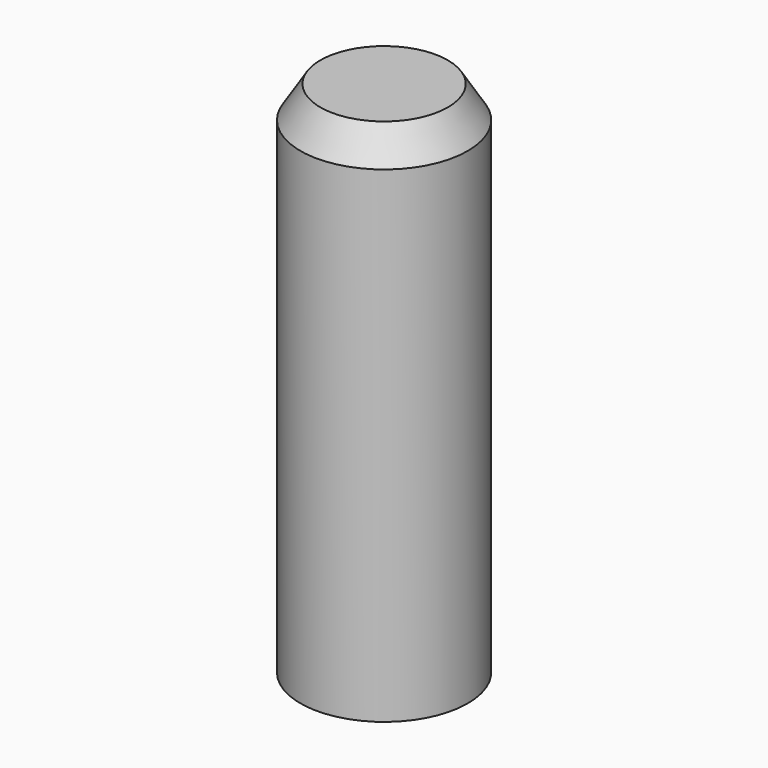
from build123d import *

# Parameters (mm, degrees)
F0_R     = 21
F1_DEPTH = 130
F2_SIZE2 = 8
F2_SIZE  = 5
F3_T     = -2
F5_W     = 26
F5_H     = 16
F6_DEPTH = 109


with BuildPart() as f1:
    # F0 (on Top) → F1 (new body)
    with BuildSketch(Plane.XY):
        Circle(F0_R)
    extrude(amount=F1_DEPTH)

    # F2
    f2_edges = [f1.edges().sort_by_distance(p)[0] for p in [
        (-21, 0, 130),
    ]]
    f2_side = f1.faces().sort_by_distance((0, 0, 130))[0]
    chamfer(f2_edges, length=F2_SIZE, length2=F2_SIZE2, reference=f2_side)

    # F3
    f3_openings = [f1.faces().sort_by_distance(p)[0] for p in [
        (0, 0, 0),
    ]]
    offset(amount=F3_T, openings=f3_openings)


with BuildPart() as f6:
    # F5 (on offset) → F6 (new body)
    with BuildSketch(Plane.XY.offset(122)):
        with Locations((-0.188622158, 0)):
            Rectangle(F5_W, F5_H)
    extrude(amount=-F6_DEPTH)


solid = Compound([f1.part, f6.part])
